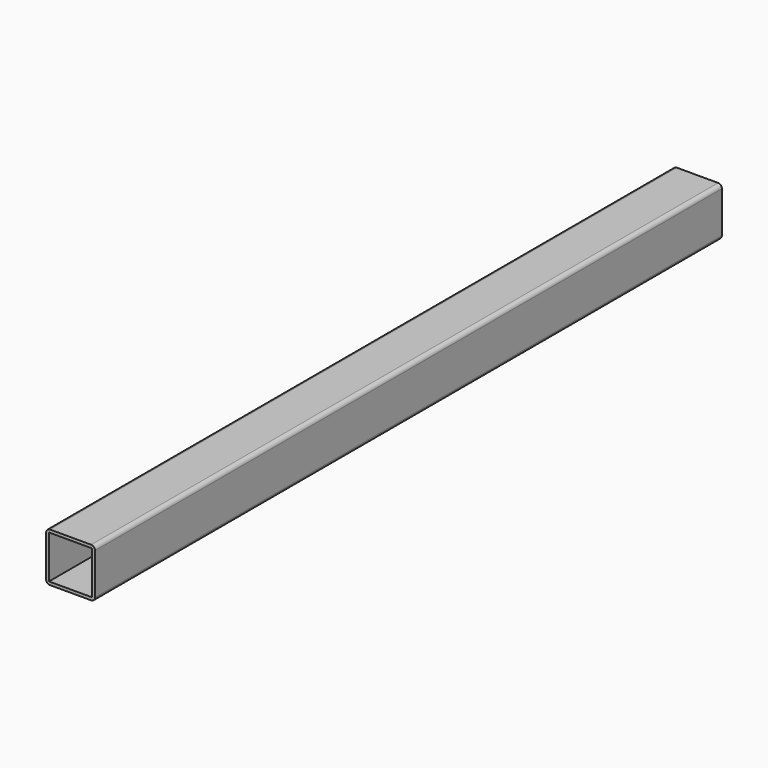
from build123d import *

# Parameters (mm, degrees)
F0_W     = 22
F0_H     = 22
F1_DEPTH = 400


with BuildPart() as f1:
    # F0 (on Front) → F1 (new body)
    with BuildSketch(Plane.XZ):
        with BuildLine():
            ThreePointArc((0, 2), (0.585786, 0.585786), (2, 0))
            Line((2, 0), (23, 0))
            ThreePointArc((23, 0), (24.414214, 0.585786), (25, 2))
            Line((25, 2), (25, 23))
            ThreePointArc((25, 23), (24.414214, 24.414214), (23, 25))
            Line((23, 25), (2, 25))
            ThreePointArc((2, 25), (0.585786, 24.414214), (0, 23))
            Line((0, 23), (0, 2))
        make_face()
        with Locations((12.5, 12.5)):
            Rectangle(F0_W, F0_H, mode=Mode.SUBTRACT)
    extrude(amount=F1_DEPTH)


solid = f1.part
